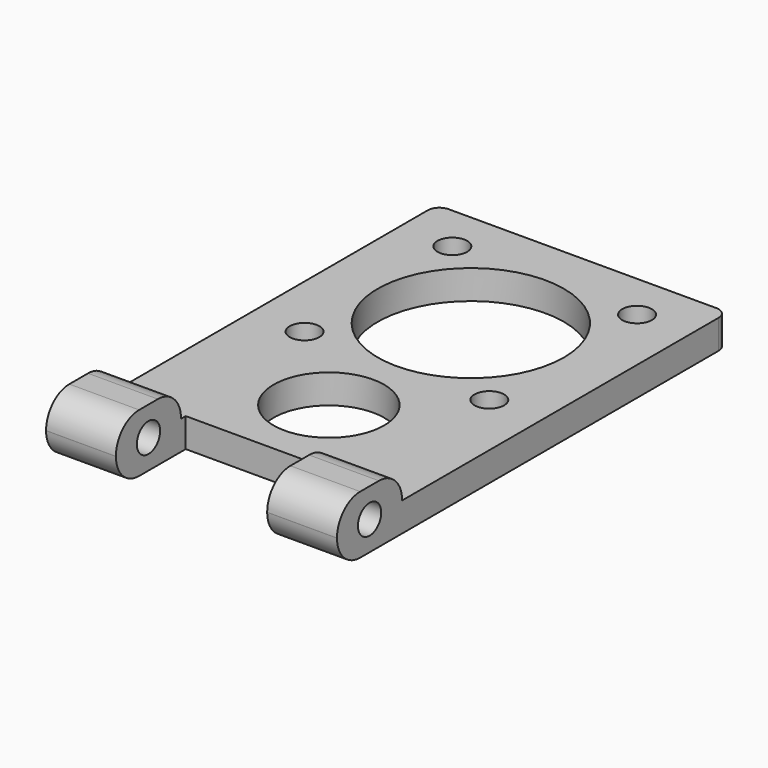
from build123d import *

# Parameters (mm, degrees)
SKETCH_W        = 50
SKETCH_H        = 70
SKETCH_R        = 16
SKETCH_R_2      = 2.55
SKETCH_R_3      = 9.5
PAD_DEPTH       = 5
SKETCH001_W     = 12
SKETCH001_H     = 14
PAD001_DEPTH    = 10
SKETCH002_R     = 2.5
POCKET_DEPTH    = 25
SKETCH003_W     = 26
SKETCH003_H     = 4
POCKET001_DEPTH = 10
FILLET_R        = 4.99
FILLET001_R     = 2


with BuildPart() as part:
    # Sketch → Pad (new body)
    with BuildSketch(Plane.XY):
        with Locations((0, -11)):
            Rectangle(SKETCH_W, SKETCH_H)
        Circle(SKETCH_R, mode=Mode.SUBTRACT)
        with Locations((15.875, 15.875)):
            Circle(SKETCH_R_2, mode=Mode.SUBTRACT)
        with Locations((-15.875, 15.875)):
            Circle(SKETCH_R_2, mode=Mode.SUBTRACT)
        with Locations((-15.875, -15.875)):
            Circle(SKETCH_R_2, mode=Mode.SUBTRACT)
        with Locations((15.875, -15.875)):
            Circle(SKETCH_R_2, mode=Mode.SUBTRACT)
        with Locations((0, -30.5)):
            Circle(SKETCH_R_3, mode=Mode.SUBTRACT)
    extrude(amount=PAD_DEPTH)

    # Sketch001 → Pad001 (join)
    with BuildSketch(Plane.XY):
        with Locations((-19, -53)):
            Rectangle(SKETCH001_W, SKETCH001_H)
        with Locations((19, -53)):
            Rectangle(SKETCH001_W, SKETCH001_H)
    extrude(amount=PAD001_DEPTH)

    # Sketch002 → Pocket (cut, symmetric)
    with BuildSketch(Plane.YZ):
        with Locations((-53, 5)):
            Circle(SKETCH002_R)
    extrude(amount=POCKET_DEPTH, both=True, mode=Mode.SUBTRACT)

    # Sketch003 → Pocket001 (cut)
    with BuildSketch(Plane.XY):
        with Locations((0, -47)):
            Rectangle(SKETCH003_W, SKETCH003_H)
    extrude(amount=POCKET001_DEPTH, mode=Mode.SUBTRACT)

    # Fillet
    fillet_edges = [part.edges().sort_by_distance(p)[0] for p in [
        (-19, -46, 10),
        (-19, -60, 10),
        (-19, -60, 0),
        (19, -60, 0),
        (19, -60, 10),
        (19, -46, 10),
    ]]
    fillet(fillet_edges, radius=FILLET_R)

    # Fillet001
    fillet001_edges = [part.edges().sort_by_distance(p)[0] for p in [
        (25, 24, 2.5),
        (-25, 24, 2.5),
    ]]
    fillet(fillet001_edges, radius=FILLET001_R)


solid = part.part
